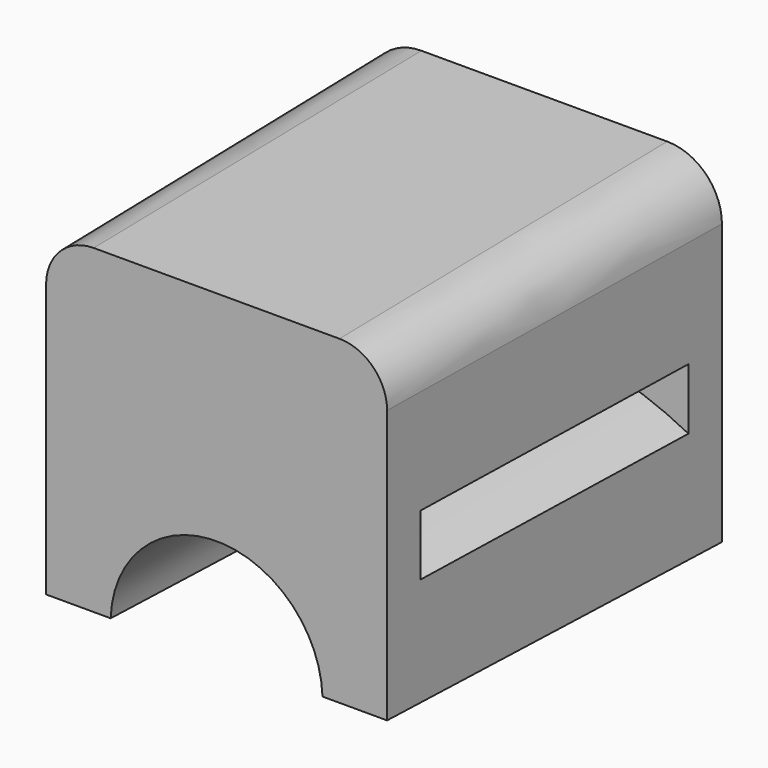
from build123d import *

# Parameters (mm, degrees)
F1_DEPTH      = 5
F1_TAPER      = 1
F1_DEPTH_BACK = 5
F1_TAPER_BACK = -1
F3_DEPTH      = 4
F3_DEPTH_BACK = 4


with BuildPart() as f1:
    # F0 (on Front) → F1 (new body, two sides)
    with BuildSketch(Plane.XZ) as f1_sk:
        with BuildLine():
            Line((-4.25, 0), (-2.5, 0))
            ThreePointArc((-2.5, 0), (0, 2.5), (2.5, 0))
            Line((2.5, 0), (4.25, 0))
            Line((4.25, 0), (4.25, 6.75))
            ThreePointArc((4.25, 6.75), (3.8838834765, 7.6338834765), (3, 8))
            Line((3, 8), (-3, 8))
            ThreePointArc((-3, 8), (-3.8838834765, 7.6338834765), (-4.25, 6.75))
            Line((-4.25, 6.75), (-4.25, 0))
        make_face()
    extrude(amount=F1_DEPTH, taper=F1_TAPER)
    extrude(f1_sk.sketch, amount=-F1_DEPTH_BACK, taper=F1_TAPER_BACK)

    # F2 (on Front) → F3 (cut, two sides)
    with BuildSketch(Plane.XZ) as f3_sk:
        with BuildLine():
            Line((6.4694641293, 1.040801663), (7.544499329, 1.8698255615))
            ThreePointArc((7.544499329, 1.8698255615), (0.598902995, 4.9474672346), (-6.4549577741, 2.1267873604))
            Line((-6.4549577741, 2.1267873604), (-5.4162036647, 1.2539537409))
            ThreePointArc((-5.4162036647, 1.2539537409), (0.5705742402, 3.5977590678), (6.4694641293, 1.040801663))
        make_face()
    extrude(amount=-F3_DEPTH, mode=Mode.SUBTRACT)
    extrude(f3_sk.sketch, amount=F3_DEPTH_BACK, mode=Mode.SUBTRACT)


solid = f1.part
